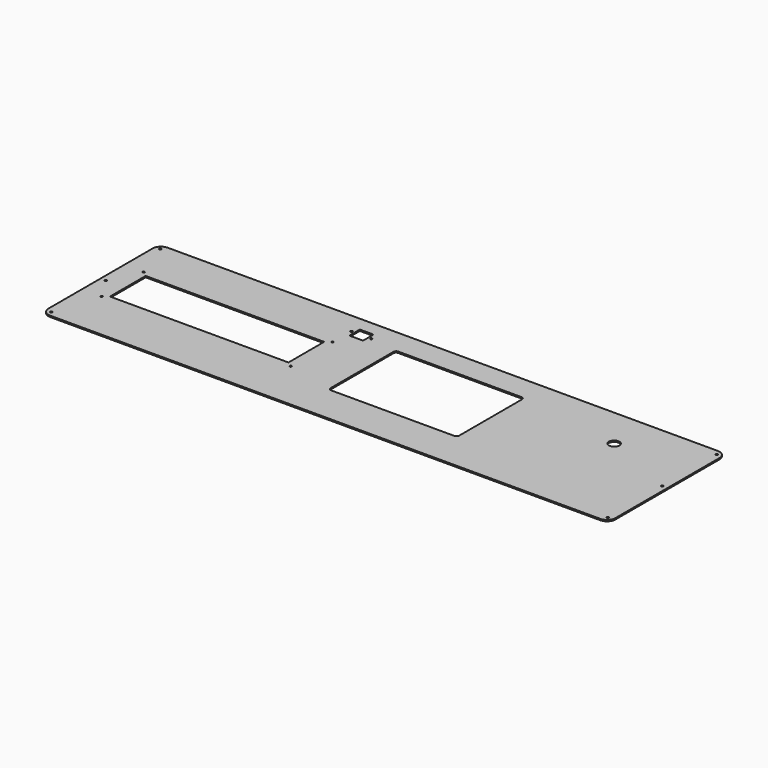
from build123d import *

# Parameters (mm, degrees)
F0_W     = 1371.6
F0_H     = 355.6
F0_R     = 2.54
F0_R_2   = 2.413
F0_W_2   = 431.8
F0_H_2   = 107.95
F0_R_3   = 2.5
F0_W_3   = 33.02
F0_H_3   = 31.75
F0_R_4   = 12.7
F1_DEPTH = 3.175
F2_R     = 20.32


with BuildPart() as f1:
    # F0 (on Top) → F1 (new body)
    with BuildSketch(Plane.XY):
        with Locations((685.8, 177.8)):
            Rectangle(F0_W, F0_H)
        with Locations((12.7, 12.7)):
            Circle(F0_R, mode=Mode.SUBTRACT)
        with Locations((47.227706, 121.980773)):
            Circle(F0_R_2, mode=Mode.SUBTRACT)
        with Locations((504.427706, 121.980773)):
            Circle(F0_R_2, mode=Mode.SUBTRACT)
        with Locations((1358.9, 12.7)):
            Circle(F0_R, mode=Mode.SUBTRACT)
        with Locations((12.7, 177.8)):
            Circle(F0_R, mode=Mode.SUBTRACT)
        with Locations((275.827706, 185.480773)):
            Rectangle(F0_W_2, F0_H_2, mode=Mode.SUBTRACT)
        with Locations((47.227706, 248.980773)):
            Circle(F0_R_2, mode=Mode.SUBTRACT)
        with Locations((504.427706, 248.980773)):
            Circle(F0_R_2, mode=Mode.SUBTRACT)
        with Locations((12.7, 342.9)):
            Circle(F0_R, mode=Mode.SUBTRACT)
        with Locations((505.246378, 305.110961)):
            Circle(F0_R_3, mode=Mode.SUBTRACT)
        with Locations((529.376378, 305.110961)):
            Rectangle(F0_W_3, F0_H_3, mode=Mode.SUBTRACT)
        with Locations((553.506378, 305.110961)):
            Circle(F0_R_3, mode=Mode.SUBTRACT)
        with BuildLine():
            ThreePointArc((619.385123, 289.537351), (621.244995, 294.027479), (625.735123, 295.887351))
            Line((625.735123, 295.887351), (924.185123, 295.887351))
            ThreePointArc((924.185123, 295.887351), (928.675251, 294.027479), (930.535123, 289.537351))
            Line((930.535123, 289.537351), (930.535123, 99.037351))
            ThreePointArc((930.535123, 99.037351), (928.675251, 94.547223), (924.185123, 92.687351))
            Line((924.185123, 92.687351), (625.735123, 92.687351))
            ThreePointArc((625.735123, 92.687351), (621.244995, 94.547223), (619.385123, 99.037351))
            Line((619.385123, 99.037351), (619.385123, 289.537351))
        make_face(mode=Mode.SUBTRACT)
        with Locations((1358.9, 177.8)):
            Circle(F0_R, mode=Mode.SUBTRACT)
        with Locations((1179.455161, 256.812692)):
            Circle(F0_R_4, mode=Mode.SUBTRACT)
        with Locations((1358.9, 342.9)):
            Circle(F0_R, mode=Mode.SUBTRACT)
    extrude(amount=F1_DEPTH)

    # F2
    f2_edges = [f1.edges().sort_by_distance(p)[0] for p in [
        (0, 355.6, 1.5875),
        (0, 0, 1.5875),
        (1371.6, 0, 1.5875),
        (1371.6, 355.6, 1.5875),
    ]]
    fillet(f2_edges, radius=F2_R)


solid = f1.part
